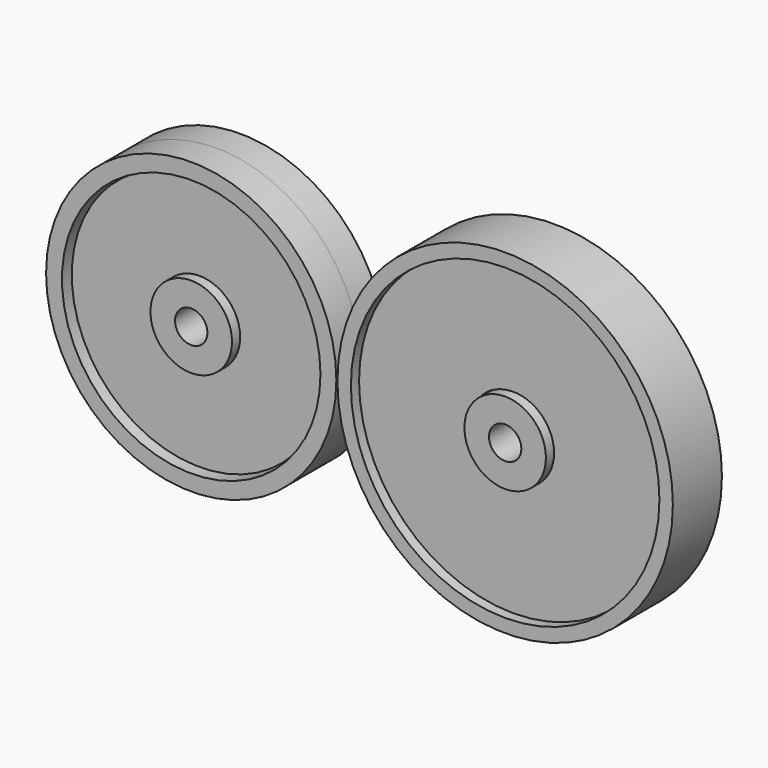
from build123d import *

# Parameters (mm, degrees)
F0_R     = 4.0005
F0_R_2   = 1.5875
F1_DEPTH = 3.0099
F0_R_3   = 14.246784
F0_R_4   = 12.686449
F0_R_5   = 16.462893
F0_R_6   = 15.143819
F2_DEPTH = 3.0099
F3_R     = 12.526784
F3_R_2   = 3.789965
F4_DEPTH = 2.0066
F3_R_3   = 15.501415
F3_R_4   = 3.967314
F5_DEPTH = 2.0066


with BuildPart() as f1:
    # F0 (on Front) → F1 (new body, symmetric)
    with BuildSketch(Plane.XZ):
        Circle(F0_R)
        Circle(F0_R_2, mode=Mode.SUBTRACT)
        with Locations((30.816578, 0)):
            Circle(F0_R)
        with Locations((30.816578, 0)):
            Circle(F0_R_2, mode=Mode.SUBTRACT)
    extrude(amount=F1_DEPTH, both=True)

    # F3 (on Front) → F4 (join, symmetric)
    with BuildSketch(Plane.XZ):
        Circle(F3_R)
        Circle(F3_R_2, mode=Mode.SUBTRACT)
    extrude(amount=F4_DEPTH, both=True)


with BuildPart() as f2:
    # F0 (on Front) → F2 (new body, symmetric)
    with BuildSketch(Plane.XZ):
        Circle(F0_R_3)
        Circle(F0_R_4, mode=Mode.SUBTRACT)
        with Locations((30.816578, 0)):
            Circle(F0_R_5)
        with Locations((30.816578, 0)):
            Circle(F0_R_6, mode=Mode.SUBTRACT)
    extrude(amount=F2_DEPTH, both=True)


with BuildPart() as f5:
    # F3 (on Front) → F5 (new body, symmetric)
    with BuildSketch(Plane.XZ):
        Circle(F3_R)
        Circle(F3_R_2, mode=Mode.SUBTRACT)
        with Locations((30.652158, 0)):
            Circle(F3_R_3)
        with Locations((30.652158, 0)):
            Circle(F3_R_4, mode=Mode.SUBTRACT)
    extrude(amount=F5_DEPTH, both=True)


solid = Compound([f1.part, f2.part, f5.part])
